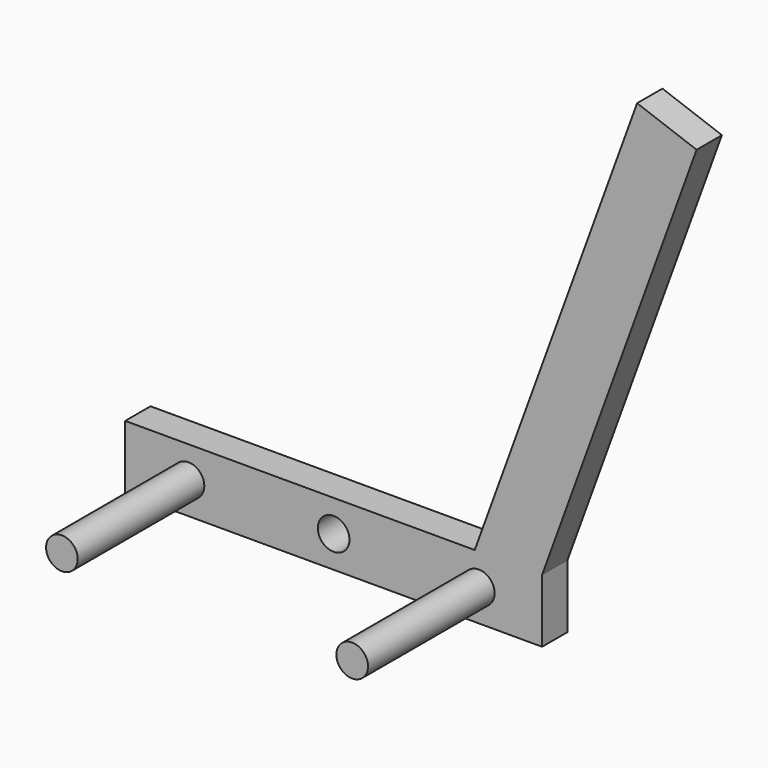
from build123d import *

# Parameters (mm, degrees)
F0_W     = 131.7172
F0_H     = 20
F0_R     = 5
F1_DEPTH = 10
F2_R     = 5
F3_DEPTH = 50
F5_DEPTH = 10


with BuildPart() as f1:
    # F0 (on Front) → F1 (new body)
    with BuildSketch(Plane.XZ):
        Rectangle(F0_W, F0_H)
        Circle(F0_R, mode=Mode.SUBTRACT)
    extrude(amount=F1_DEPTH)

    # F2 (on face) → F3 (join)
    with BuildSketch(Plane.XZ.offset(10)):
        with Locations((-45.8586, 0)):
            Circle(F2_R)
        with Locations((45.8586, 0)):
            Circle(F2_R)
    extrude(amount=F3_DEPTH)

    # F4 (on Front) → F5 (join)
    with BuildSketch(Plane.XZ):
        Polygon((95.878066, 150.953893), (44.575044, 10), (63.368897, 3.159597), (114.671918, 144.11349), align=None)
    extrude(amount=F5_DEPTH)


solid = f1.part
